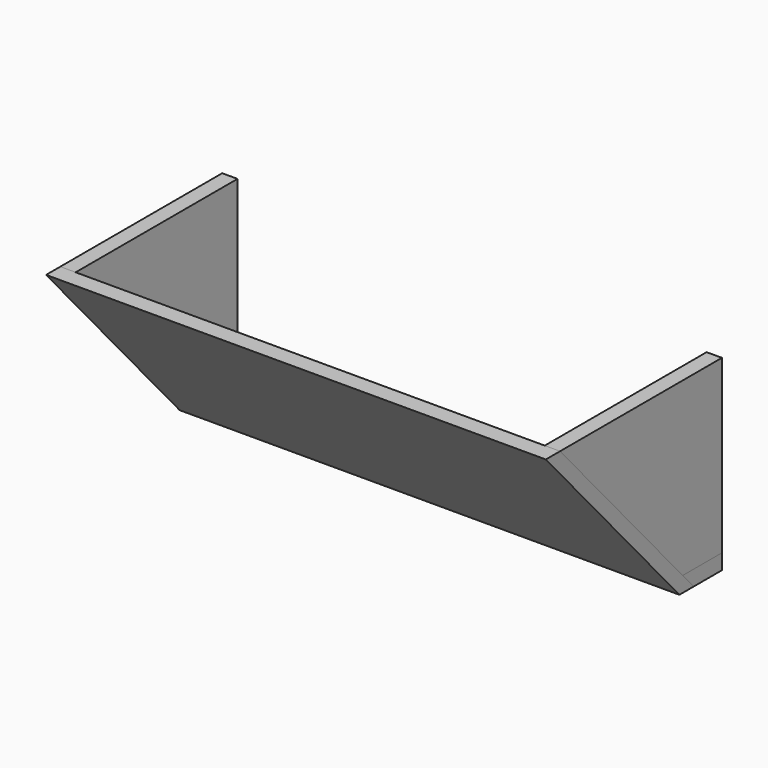
from build123d import *

# Parameters (mm, degrees)
F1_DEPTH = 15.875
F4_DEPTH = 517.525
F6_DEPTH = 517.525


with BuildPart() as f1:
    # F0 (on Right) → F1 (new body)
    with BuildSketch(Plane.YZ):
        Polygon((-50.8, 0), (0, 0), (0, 177.8), (-209.55, 177.8), align=None)
    extrude(amount=F1_DEPTH)


with BuildPart() as f4:
    # F3 (on face) → F4 (new body)
    with BuildSketch(Plane.YZ.offset(15.875)):
        Polygon((0, -15.875), (0, 0), (-50.8, 0), (-36.625893, -15.875), align=None)
    extrude(amount=-F4_DEPTH)


with BuildPart() as f6:
    # F5 (on face) → F6 (new body)
    with BuildSketch(Plane.YZ.offset(15.875)):
        Polygon((-36.625893, -15.875), (-209.55, 177.8), (-227.970779, 177.8), (-55.046672, -15.875), align=None)
    extrude(amount=-F6_DEPTH)


with BuildPart() as f7_1:
    # F7: copy of F1
    add(f1.part.moved(Location((-501.65, 0, 0))))


solid = Compound([f1.part, f4.part, f6.part, f7_1.part])
